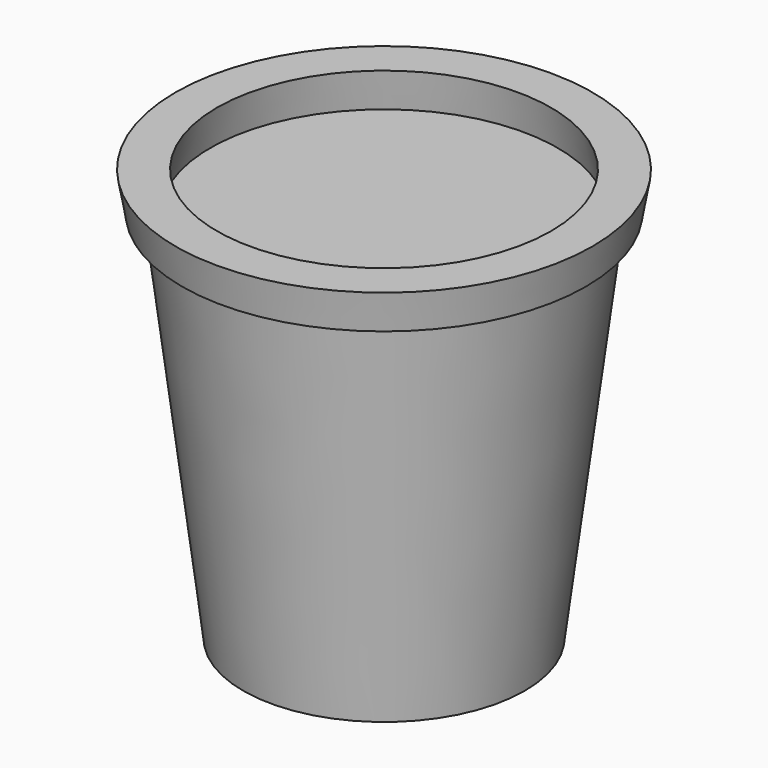
from build123d import *

# Parameters (mm, degrees)
F0_R     = 15
F2_R     = 20
F4_R     = 21.5
F4_R_2   = 20
F4_R_3   = 18.5
F5_DEPTH = 4
F5_TAPER = -10


with BuildPart() as f3:
    # F0 (on Top) → F3 section 0
    with BuildSketch(Plane.XY):
        Circle(F0_R)
    # F2 (on offset) → F3 section 1
    with BuildSketch(Plane.XY.offset(40)):
        Circle(F2_R)
    loft()

    # F4 (on face) → F5 (join)
    with BuildSketch(Plane.XY.offset(40)):
        Circle(F4_R)
        Circle(F4_R_2, mode=Mode.SUBTRACT)
        Circle(F4_R_2)
        Circle(F4_R_3, mode=Mode.SUBTRACT)
    extrude(amount=F5_DEPTH, taper=F5_TAPER)


solid = f3.part
